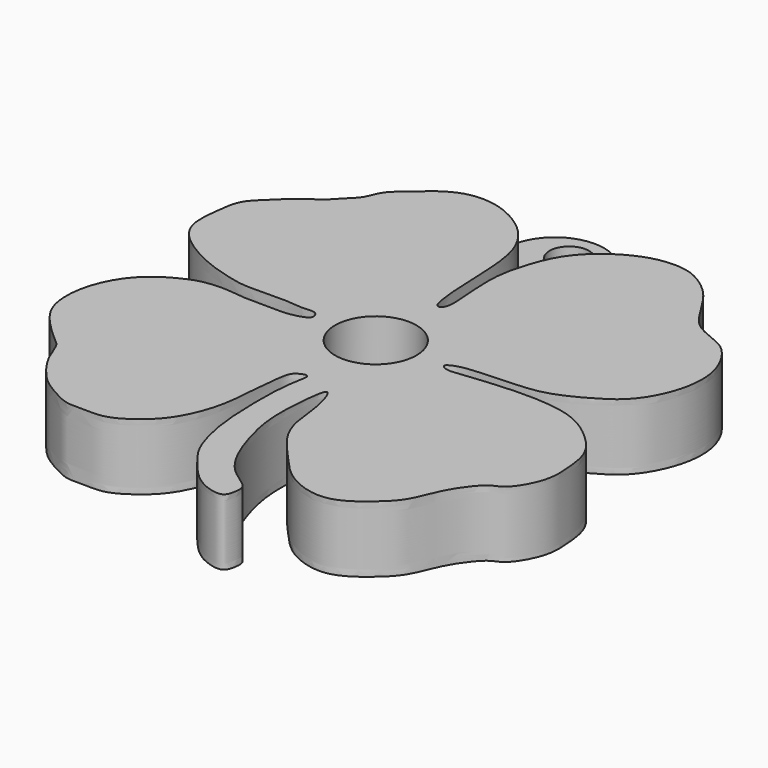
from build123d import *

# Parameters (mm, degrees)
F0_R     = 3.2763894556
F1_DEPTH = 5.334
F0_R_2   = 1.5875
F2_DEPTH = 3.175


with BuildPart() as f1:
    # F0 (on Top) → F1 (new body)
    with BuildSketch(Plane.XY):
        with BuildLine():
            add(Edge.make_bspline(
                [(4.2607149333, 12.8297314506), (3.5032311004, 12.2652357072), (2.2283869621, 10.9902436935), (1.2702354656, 8.343875954), (0.8533272252, 6.4771708235), (0.8411521684, 4.5981331025), (1.0281213902, 2.5563728927), (1.1025464093, 0.9414410157), (0.6233250205, 0.6579533506), (0.4915293205, 0.7559561913)],
                knots=[0.9444227819, 0.9444227819, 0.9444227819, 0.9444227819, 0.9541853238, 0.9639644984, 0.972105711, 0.9801123951, 0.9887834955, 0.9960872761, 1, 1, 1, 1], degree=3))
            add(Edge.make_bspline(
                [(0.4915293205, 0.7559561913), (0.1316544939, 1.0235579061), (-0.0502268387, 4.3074590105), (-0.1115923863, 6.463965292), (-0.3176290143, 8.982060071), (-0.9676536038, 10.688924611), (-2.0467345601, 12.1167883346), (-3.1077147511, 12.8523025643), (-3.6530715951, 13.1502869737)],
                knots=[0, 0, 0, 0, 0.0106838905, 0.0202145603, 0.0293277593, 0.0372699508, 0.0450657123, 0.053190183, 0.053190183, 0.053190183, 0.053190183], degree=3))
            add(Edge.make_bspline(
                [(-3.6530715951, 13.1502869737), (-4.1807276665, 13.4385996346), (-5.2780844552, 13.8844809657), (-7.3562904767, 13.986849408), (-9.123228133, 13.1354513681), (-10.3976852431, 11.9699217377), (-11.9804509787, 10.7432987686), (-12.2754079159, 9.3383892417), (-13.3229748755, 8.4849692331), (-13.9944067968, 7.5776259246), (-15.2594502022, 6.9405253711), (-16.9008011686, 5.2835883786), (-18.1451605821, 4.1592751473), (-18.3822916734, 2.4095866184), (-18.6617312051, 0.0763914338), (-17.908500496, -1.375747514), (-16.6046060195, -2.5272697505), (-14.5063438502, -3.6438972892), (-12.8969863132, -4.1712700301), (-11.1854188144, -4.6249631531), (-9.849693173, -4.6789838073), (-7.4052280169, -4.551453669), (-5.9677364613, -4.8123968368), (-5.0102473967, -4.6127538689), (-4.6895266797, -5.0275969078), (-4.6745236848, -5.4976064055), (-5.3767146338, -5.7858799793), (-6.5655517865, -6.0476052692), (-8.5381661071, -5.9147290172), (-9.916541143, -5.9799443354), (-11.2660615462, -5.7054100315), (-13.1935663388, -5.8420240947), (-14.4582279276, -6.380869502), (-15.9334941203, -7.2041729572), (-17.3885060878, -8.6118388734), (-18.5447037361, -11.0354998135), (-18.6747909244, -13.8647582967), (-17.624497728, -15.8323619522), (-15.5032334134, -17.7801028643), (-14.8060779162, -18.2716631337), (-14.3279948757, -19.7684595986), (-13.6768749058, -20.8822037035), (-12.4328600741, -22.4868775006), (-11.0357229162, -23.3566885428), (-9.4542327344, -24.2012541005), (-8.2179874385, -24.0363430614), (-6.4030315304, -24.2594364586), (-4.4996847525, -23.0210421187), (-2.8928361233, -21.5430241266), (-1.5487029086, -18.3573236929), (-1.4315987798, -15.3209632728), (-1.1524860857, -12.8713385004), (-0.9329088817, -12.0029897119), (0.1732652684, -11.5395809185), (0.0806862491, -12.374625202), (-0.1420474106, -13.247233069), (-0.3155800652, -15.7645827513), (-0.1954759264, -19.8448889243), (0.3189426111, -22.1638030919), (0.9116228054, -23.8894458797), (2.067824187, -25.3995400201), (3.2660030865, -26.7921745924), (4.5303238105, -27.6002380345), (6.1647091109, -27.94527629), (6.370075363, -26.7670610788), (6.4340212942, -25.9011690989), (4.5324099628, -24.9046884501), (3.3240892725, -23.0491579473), (2.4889637187, -20.8713724035), (1.7614321844, -17.95824793), (1.8883415439, -15.0155282523), (2.2742504409, -11.8046608417), (3.2402717418, -14.6171685657), (3.3047745269, -17.0168113111), (4.1229025126, -19.1105352318), (5.9437503856, -21.062986659), (7.7238991136, -23.1871602445), (10.1752328184, -24.1405201761), (12.1882857849, -23.9496877514), (14.2861810228, -22.3104301999), (15.505100062, -20.9976315308), (16.166201691, -19.1979457987), (16.8556835389, -17.8116903662), (18.199665096, -16.1084239332), (19.2539603676, -16.0169167188), (20.7990736145, -13.5209187527), (20.6331628106, -11.1558660418), (20.3580240597, -8.8586677361), (18.3550479292, -6.8318984493), (16.1145835769, -5.443437763), (12.5252908727, -5.1416728648), (9.3294029662, -5.3752080107), (7.4066580398, -5.6045263127), (6.3508237148, -5.7286912569), (5.7323735106, -5.3220012808), (6.2643116757, -4.9683080046), (7.4157368185, -4.6244466571), (11.0908205027, -4.5756653678), (13.4380169701, -4.2902384237), (16.0058196004, -2.9801745188), (18.1228705281, -1.5932359343), (19.5668984596, 1.2475959685), (19.8167235594, 3.7246109258), (19.3319604586, 5.6573895489), (18.0422594834, 7.6391859171), (16.24344659, 8.2552460543), (14.7818044595, 8.9601014865), (13.7961588785, 10.5819864765), (12.5778908644, 12.5132019794), (11.3176898943, 13.5802050689), (9.6646012965, 14.5277742084), (6.869532005, 14.4235020495), (5.0602475653, 13.4255630022), (4.2607149333, 12.8297314506)],
                knots=[0.053190183, 0.053190183, 0.053190183, 0.053190183, 0.0610509559, 0.0694253652, 0.0775427769, 0.0853928249, 0.0935834539, 0.100464407, 0.1071548318, 0.1133133126, 0.1202726904, 0.1293145011, 0.1368324446, 0.1445368453, 0.1535259974, 0.1608379342, 0.1685721591, 0.1776347318, 0.1854477136, 0.1930941839, 0.2000336393, 0.2092252662, 0.2165252994, 0.2219897587, 0.2258554375, 0.2294789209, 0.2342218025, 0.2408331694, 0.2491513654, 0.2560848586, 0.262985094, 0.271093424, 0.278033276, 0.285571895, 0.2939100625, 0.3035476607, 0.313244118, 0.3221405897, 0.3319540384, 0.3374193119, 0.3444846601, 0.3513844903, 0.359646363, 0.3673667928, 0.3750486103, 0.3815498814, 0.3893273114, 0.3980032895, 0.4067339794, 0.4175132641, 0.4280714449, 0.4371731374, 0.4426793736, 0.4480237167, 0.4523060237, 0.4579499846, 0.4672700369, 0.4793739321, 0.4884914095, 0.4962929709, 0.5044090007, 0.5123711363, 0.5197592114, 0.5265968471, 0.5322823888, 0.5374273386, 0.5456331483, 0.5544691167, 0.5634546384, 0.5735611403, 0.5843900551, 0.5926706733, 0.600506632, 0.6102145621, 0.618846961, 0.6284456624, 0.6383114483, 0.6476150786, 0.6558297539, 0.6652900929, 0.6732595729, 0.6812111795, 0.6888049048, 0.697152209, 0.702973506, 0.7125549136, 0.7217525097, 0.7305288679, 0.7402206682, 0.7497585116, 0.7608953603, 0.7715954316, 0.7797608651, 0.7857953513, 0.7899412526, 0.7936714185, 0.8001693104, 0.8114357824, 0.8207656463, 0.8305526096, 0.8399482313, 0.850301438, 0.8595261822, 0.8677941599, 0.8766389581, 0.8846695596, 0.8920071419, 0.9000763825, 0.9089979835, 0.9165300935, 0.9244594522, 0.9341183101, 0.9444227819, 0.9444227819, 0.9444227819, 0.9444227819], degree=3))
        make_face()
        with Locations((0.383981949, -5.3199501891)):
            Circle(F0_R, mode=Mode.SUBTRACT)
    extrude(amount=F1_DEPTH)

    # F0 (on Top) → F2 (join)
    with BuildSketch(Plane.XY):
        with BuildLine():
            add(Edge.make_bspline(
                [(0.4915293205, 0.7559561913), (0.1316544939, 1.0235579061), (-0.0502268387, 4.3074590105), (-0.1115923863, 6.463965292), (-0.3176290143, 8.982060071), (-0.9676536038, 10.688924611), (-2.0467345601, 12.1167883346), (-3.1077147511, 12.8523025643), (-3.6530715951, 13.1502869737)],
                knots=[0, 0, 0, 0, 0.0106838905, 0.0202145603, 0.0293277593, 0.0372699508, 0.0450657123, 0.053190183, 0.053190183, 0.053190183, 0.053190183], degree=3))
            add(Edge.make_bspline(
                [(4.2607149333, 12.8297314506), (3.5032311004, 12.2652357072), (2.2283869621, 10.9902436935), (1.2702354656, 8.343875954), (0.8533272252, 6.4771708235), (0.8411521684, 4.5981331025), (1.0281213902, 2.5563728927), (1.1025464093, 0.9414410157), (0.6233250205, 0.6579533506), (0.4915293205, 0.7559561913)],
                knots=[0.9444227819, 0.9444227819, 0.9444227819, 0.9444227819, 0.9541853238, 0.9639644984, 0.972105711, 0.9801123951, 0.9887834955, 0.9960872761, 1, 1, 1, 1], degree=3))
            ThreePointArc((4.2607149333, 12.8297314506), (0.4563885539, 16.7565384721), (-3.6530715951, 13.1502869737))
        make_face()
        with Locations((0.2959159347, 14.2424419779)):
            Circle(F0_R_2, mode=Mode.SUBTRACT)
    extrude(amount=F2_DEPTH)


solid = f1.part
